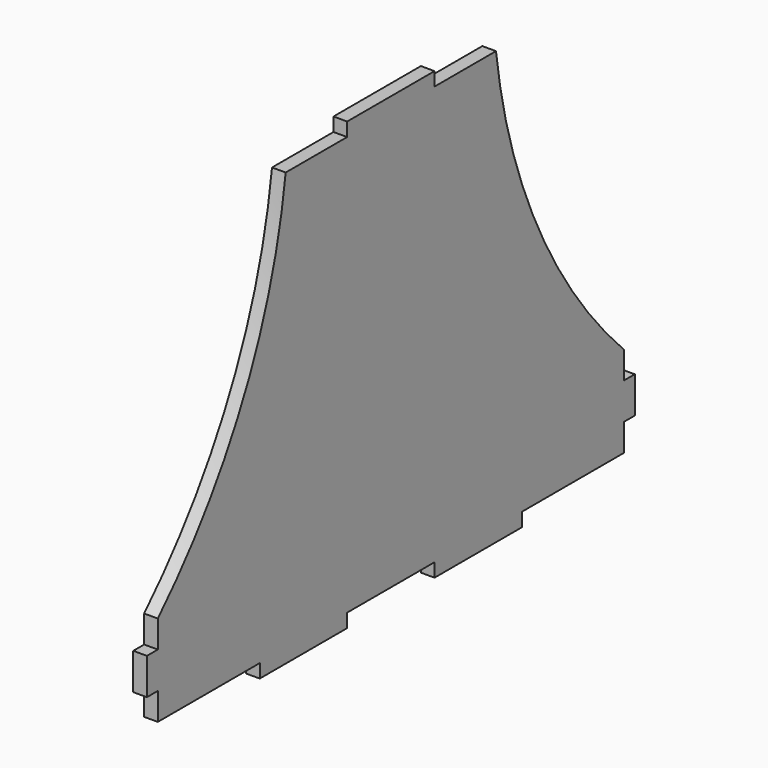
from build123d import *

# Parameters (mm, degrees)
F1_DEPTH = 19.05
F2_W     = 152.4
F2_H     = 19.05
F3_DEPTH = 19.05
F4_DEPTH = 19.05
F6_DEPTH = 19.051


with BuildPart() as f1:
    # F0 (on Right) → F1 (new body)
    with BuildSketch(Plane.YZ):
        with BuildLine():
            Line((-208.022948, 25.627738), (-208.022948, -101.372262))
            Line((-208.022948, -101.372262), (604.777052, -101.372262))
            Line((604.777052, -101.372262), (604.777052, 25.627738))
            ThreePointArc((604.777052, 25.627738), (429.785179, 293.978744), (376.177052, 609.827738))
            Line((376.177052, 609.827738), (198.377052, 609.827738))
            Line((198.377052, 609.827738), (20.577052, 609.827738))
            ThreePointArc((20.577052, 609.827738), (-33.031076, 293.978744), (-208.022948, 25.627738))
        make_face()
    extrude(amount=F1_DEPTH)

    # F2 (on face) → F3 (join)
    with BuildSketch(Plane.YZ.offset(19.05)):
        Polygon((274.577052, 628.877738), (198.377052, 628.877738), (122.177052, 628.877738), (122.177052, 609.827738), (274.577052, 609.827738), align=None)
        Polygon((-227.072948, -12.472262), (-227.072948, -37.872262), (-227.072948, -63.272262), (-208.022948, -63.272262), (-208.022948, -12.472262), align=None)
        with Locations((45.977052, -110.897262)):
            Rectangle(F2_W, F2_H)
        with Locations((350.777052, -110.897262)):
            Rectangle(F2_W, F2_H)
        Polygon((623.827052, -63.272262), (623.827052, -37.872262), (623.827052, -12.472262), (604.777052, -12.472262), (604.777052, -63.272262), align=None)
    extrude(amount=-F3_DEPTH)

    # F0 (on Right) → F4 (join)
    with BuildSketch(Plane.YZ):
        with BuildLine():
            Line((-208.022948, 25.627738), (-208.022948, -101.372262))
            Line((-208.022948, -101.372262), (604.777052, -101.372262))
            Line((604.777052, -101.372262), (604.777052, 25.627738))
            ThreePointArc((604.777052, 25.627738), (429.785179, 293.978744), (376.177052, 609.827738))
            Line((376.177052, 609.827738), (198.377052, 609.827738))
            Line((198.377052, 609.827738), (20.577052, 609.827738))
            ThreePointArc((20.577052, 609.827738), (-33.031076, 293.978744), (-208.022948, 25.627738))
        make_face()
    extrude(amount=F4_DEPTH)

    # F5 (on face) → F6 (cut, through all)
    with BuildSketch(Plane.YZ.offset(19.05)):
        with BuildLine():
            ThreePointArc((20.577052, 609.827738), (20.34373, 546.21452), (14.976085, 482.827738))
            Line((14.976085, 482.827738), (122.177052, 482.827738))
            Line((122.177052, 482.827738), (122.177052, 501.877738))
            Line((122.177052, 501.877738), (274.577052, 501.877738))
            Line((274.577052, 501.877738), (274.577052, 482.827738))
            Line((274.577052, 482.827738), (381.778018, 482.827738))
            ThreePointArc((381.778018, 482.827738), (376.410373, 546.21452), (376.177052, 609.827738))
            Line((376.177052, 609.827738), (274.577052, 609.827738))
            Line((274.577052, 609.827738), (274.577052, 628.877738))
            Line((274.577052, 628.877738), (122.177052, 628.877738))
            Line((122.177052, 628.877738), (122.177052, 609.827738))
            Line((122.177052, 609.827738), (20.577052, 609.827738))
        make_face()
    extrude(amount=-F6_DEPTH, mode=Mode.SUBTRACT)


solid = f1.part
